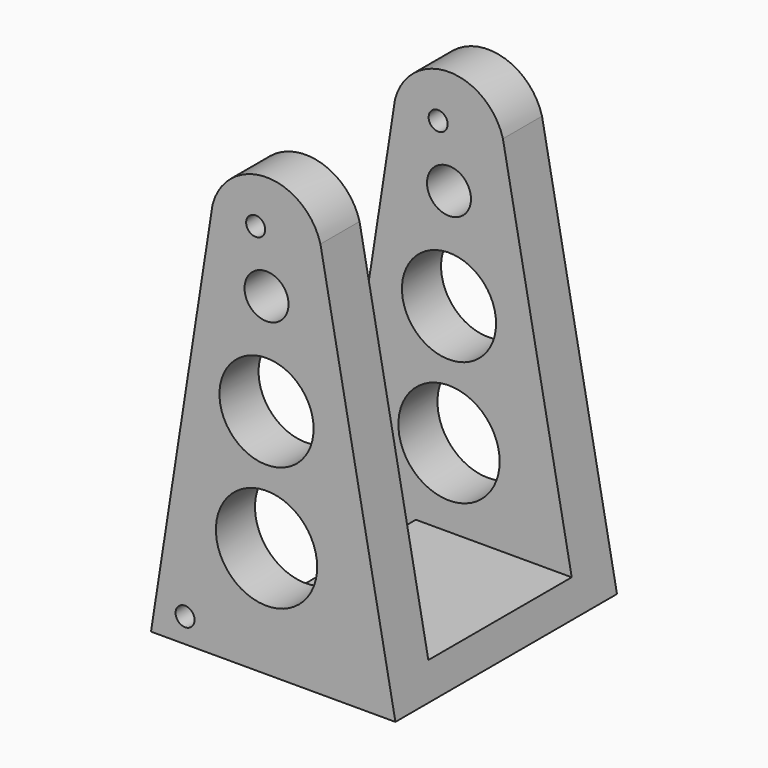
from build123d import *

# Parameters (mm, degrees)
F1_DEPTH = 25.5
F3_DEPTH = 16.5
F6_D     = 3.5
F7_R     = 8.663852
F7_R_2   = 4.05
F7_R_3   = 9.323293
F8_DEPTH = 40


with BuildPart() as f1:
    # F0 (on Front) → F1 (new body, symmetric)
    with BuildSketch(Plane.XZ):
        with BuildLine():
            Line((-21.26926, 0), (23.73074, 0))
            Line((23.73074, 0), (9.928151, 72.969893))
            ThreePointArc((9.928151, 72.969893), (0, 80.571183), (-9.928151, 72.969893))
            Line((-9.928151, 72.969893), (-21.26926, 0))
        make_face()
    extrude(amount=F1_DEPTH, both=True)


with BuildPart() as f3:
    # F2 (on Front) → F3 (new body, symmetric)
    with BuildSketch(Plane.XZ):
        Polygon((-6.10114, 6), (30, 6), (20, 90), (-30, 90), (-30, 0), (-7.03367, 0), align=None)
    extrude(amount=F3_DEPTH, both=True)


with BuildPart() as f1_1:
    add(f1.part)

    # F4: cut F3
    add(f3.part, mode=Mode.SUBTRACT)

    # F6 (through all)
    with Locations(Plane.XZ.offset(25.5)):
        with Locations((-2, 72), (-15, 4.5)):
            Hole(F6_D / 2)


with BuildPart() as f8:
    # F7 (on Front) → F8 (new body, symmetric)
    with BuildSketch(Plane.XZ):
        with Locations((0, 42.608014)):
            Circle(F7_R)
        with Locations((0, 61.275356)):
            Circle(F7_R_2)
        with Locations((0, 20.42364)):
            Circle(F7_R_3)
    extrude(amount=F8_DEPTH, both=True)


with BuildPart() as f1_2:
    add(f1_1.part)

    # F9: cut F8
    add(f8.part, mode=Mode.SUBTRACT)


solid = f1_2.part
